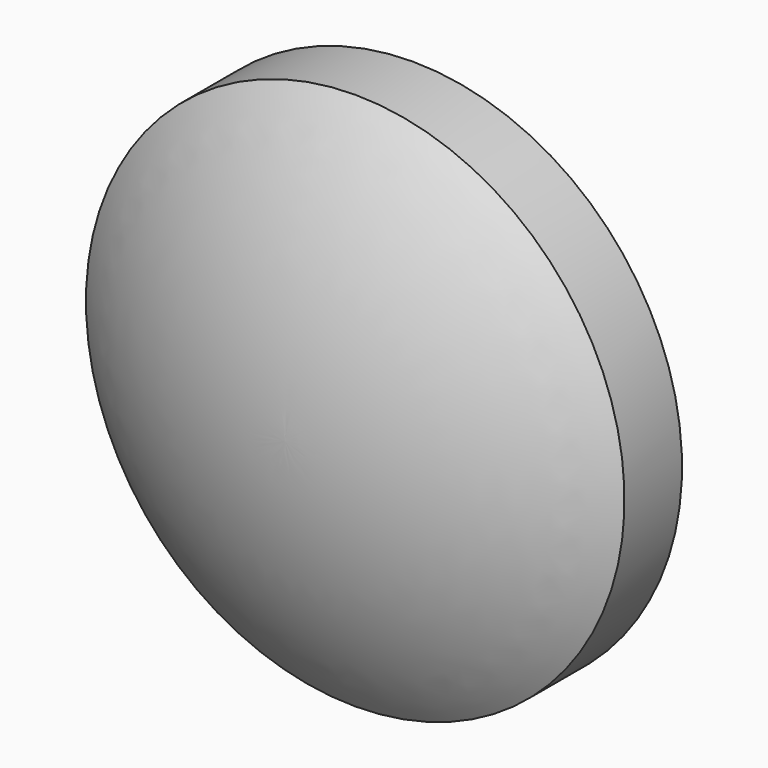
from build123d import *


with BuildPart() as f1:
    # F0 (on Right) → F1 (revolve)
    with BuildSketch(Plane.YZ):
        with BuildLine():
            Line((-9, 0), (0, 0))
            ThreePointArc((0, 0), (-0.371456, 6.39302), (-1.480823, 12.7))
            Line((-1.480823, 12.7), (-4.871978, 12.7))
            ThreePointArc((-4.871978, 12.7), (-7.942087, 6.677023), (-9, 0))
        make_face()
    revolve(axis=Axis((0, 6.3, 0), (0, 1, 0)))


solid = f1.part
